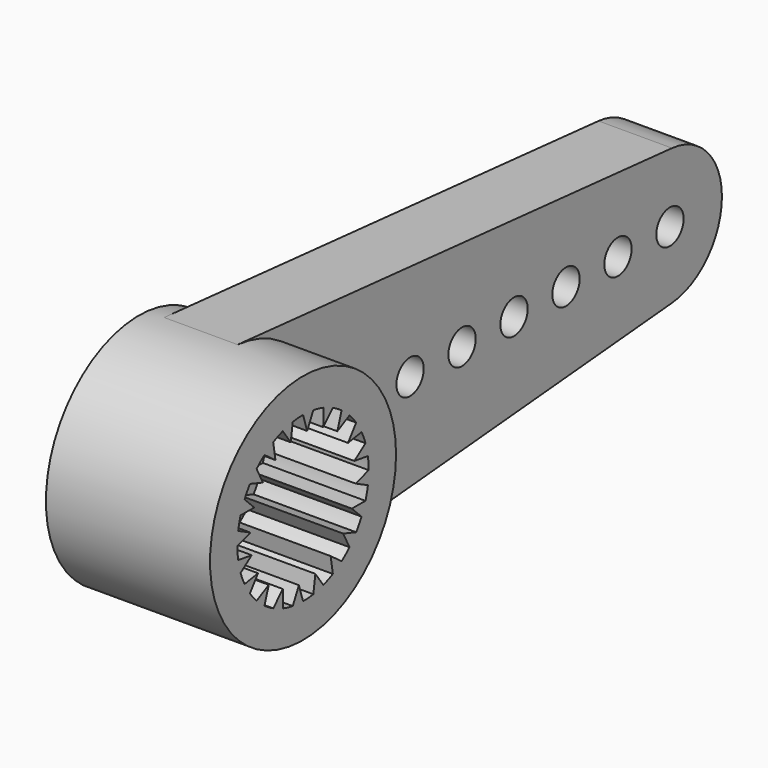
from build123d import *

# Parameters (mm, degrees)
SKETCH079_R        = 3.4
PAD047_DEPTH       = 4.8
PAD048_DEPTH       = 2.15
POCKET033_DEPTH    = 3
POLARPATTERN_COUNT = 20
SKETCH082_R        = 2.4
POCKET034_DEPTH    = 1
SKETCH083_R        = 1.3
POCKET035_DEPTH    = 5
SKETCH084_R        = 0.5
POCKET036_DEPTH    = 5


with BuildPart() as part:
    # Sketch079 → Pad047 (new body)
    with BuildSketch(Plane.YZ):
        Circle(SKETCH079_R)
    extrude(amount=PAD047_DEPTH)

    # Sketch080 → Pad048 (join)
    with BuildSketch(Plane.YZ.offset(0.5)):
        with BuildLine():
            ThreePointArc((16.175, -1.9923290391), (18, 0), (16.175, 1.9923290391))
            Line((0.2975, 3.3869593665), (16.175, 1.9923290391))
            ThreePointArc((0.2975, 3.3869593665), (-3.4, 0), (0.2975, -3.3869593665))
            Line((0.2975, -3.3869593665), (16.175, -1.9923290391))
        make_face()
    extrude(amount=PAD048_DEPTH)

    # Sketch081 (on Face10 of Pad048) → Pocket033 (cut)
    with BuildSketch(Plane.YZ.offset(4.8)):
        with BuildLine():
            Line((2.4, 0), (1.9234666187, -0.1513801059))
            Line((1.9234666187, -0.1513801059), (2.3704520174, -0.3754427161))
            Line((0, 0), (2.3704520174, -0.3754427161))
            Line((2.3704520174, 0.3754427161), (0, 0))
            ThreePointArc((2.4, 0), (2.392601601, 0.1883018297), (2.3704520174, 0.3754427161))
        make_face()
    pocket033 = extrude(amount=-POCKET033_DEPTH, mode=Mode.SUBTRACT)

    # PolarPattern: Pocket033 ×20 about axis
    polarpattern_axis = Axis((4.8, 0, 0), (1, 0, 0))
    for i in range(1, POLARPATTERN_COUNT):
        add(pocket033.rotate(polarpattern_axis, i * 360 / POLARPATTERN_COUNT), mode=Mode.SUBTRACT)

    # Sketch082 (on Face2 of PolarPattern) → Pocket034 (cut)
    with BuildSketch(Plane(origin=(0, 0, 0), x_dir=(0, 1, 0), z_dir=(-1, 0, 0))):
        Circle(SKETCH082_R)
    extrude(amount=-POCKET034_DEPTH, mode=Mode.SUBTRACT)

    # Sketch083 (on Face10 of Pocket034) → Pocket035 (cut)
    with BuildSketch(Plane(origin=(1, 0, 0), x_dir=(0, 1, 0), z_dir=(-1, 0, 0))):
        Circle(SKETCH083_R)
    extrude(amount=-POCKET035_DEPTH, mode=Mode.SUBTRACT)

    # Sketch084 (on Face3 of Pocket035) → Pocket036 (cut)
    with BuildSketch(Plane(origin=(0.5, 0, 0), x_dir=(0, 1, 0), z_dir=(-1, 0, 0))):
        with Locations((4.7, 0)):
            Circle(SKETCH084_R)
        with Locations((6.6, 0)):
            Circle(SKETCH084_R)
        with Locations((8.5, 0)):
            Circle(SKETCH084_R)
        with Locations((10.4, 0)):
            Circle(SKETCH084_R)
        with Locations((12.3, 0)):
            Circle(SKETCH084_R)
        with Locations((14.2, 0)):
            Circle(SKETCH084_R)
        with Locations((16.1, 0)):
            Circle(SKETCH084_R)
    extrude(amount=-POCKET036_DEPTH, mode=Mode.SUBTRACT)


solid = part.part
